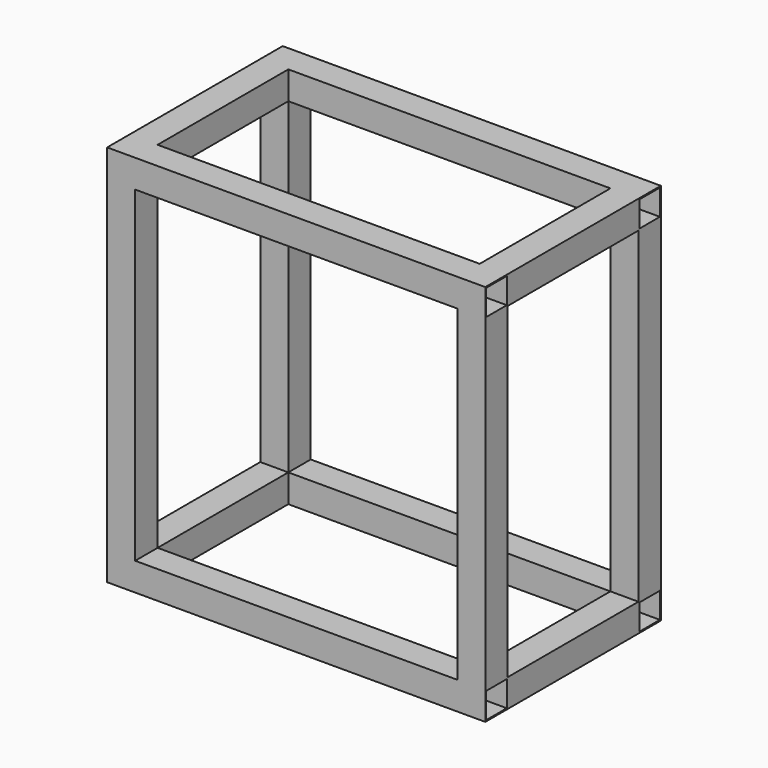
from build123d import *

# Parameters (mm, degrees)
F0_W      = 152.4
F0_H      = 152.4
F0_W_2    = 139.7
F0_H_2    = 139.7
F1_DEPTH  = 2057.4
F2_W      = 152.4
F2_H      = 152.4
F3_DEPTH  = 1041.4
F4_W      = 152.4
F4_H      = 152.4
F5_DEPTH  = 1752.6
F6_W      = 139.7
F6_H      = 139.7
F7_DEPTH  = 2286
F8_W      = 152.4
F8_H      = 152.4
F9_DEPTH  = 1778
F10_W     = 152.4
F10_H     = 152.4
F11_DEPTH = 1193.8
F12_W     = 152.4
F12_H     = 152.4
F13_DEPTH = 1752.6
F14_W     = 139.7
F14_H     = 139.7
F15_DEPTH = 2286


with BuildPart() as f1:
    # F0 (on Right) → F1 (new body)
    with BuildSketch(Plane.YZ):
        Rectangle(F0_W, F0_H)
        Rectangle(F0_W_2, F0_H_2, mode=Mode.SUBTRACT)
    extrude(amount=F1_DEPTH)

    # F2 (on face) → F3 (join)
    with BuildSketch(Plane.XZ.offset(76.2)):
        with Locations((76.2, 0)):
            Rectangle(F2_W, F2_H)
        with Locations((1981.2, 0)):
            Rectangle(F2_W, F2_H)
    extrude(amount=F3_DEPTH)

    # F4 (on face) → F5 (join)
    with BuildSketch(Plane.YZ.offset(152.4)):
        with Locations((-1041.4, 0)):
            Rectangle(F4_W, F4_H)
    extrude(amount=F5_DEPTH)

    # F6 (on face) → F7 (cut)
    with BuildSketch(Plane.YZ.offset(2057.4)):
        with Locations((-1041.4, 0)):
            Rectangle(F6_W, F6_H)
    extrude(amount=-F7_DEPTH, mode=Mode.SUBTRACT)

    # F8 (on face) → F9 (join)
    with BuildSketch(Plane.XY.offset(76.2)):
        with Locations((76.2, 0)):
            Rectangle(F8_W, F8_H)
        with Locations((76.2, -1041.4)):
            Rectangle(F8_W, F8_H)
        with Locations((1981.2, -1041.4)):
            Rectangle(F8_W, F8_H)
        with Locations((1981.2, 0)):
            Rectangle(F8_W, F8_H)
    extrude(amount=F9_DEPTH)

    # F10 (on face) → F11 (join)
    with BuildSketch(Plane.XZ.offset(1117.6)):
        with Locations((76.2, 1930.4)):
            Rectangle(F10_W, F10_H)
        with Locations((1981.2, 1930.4)):
            Rectangle(F10_W, F10_H)
    extrude(amount=-F11_DEPTH)

    # F12 (on face) → F13 (join)
    with BuildSketch(Plane(origin=(1905, 0, 0), x_dir=(0, -1, 0), z_dir=(-1, 0, 0))):
        with Locations((0, 1930.4)):
            Rectangle(F12_W, F12_H)
        with Locations((1041.4, 1930.4)):
            Rectangle(F12_W, F12_H)
    extrude(amount=F13_DEPTH)

    # F14 (on face) → F15 (cut)
    with BuildSketch(Plane(origin=(0, 0, 0), x_dir=(0, -1, 0), z_dir=(-1, 0, 0))):
        with Locations((0, 1930.4)):
            Rectangle(F14_W, F14_H)
        with Locations((1041.4, 1930.4)):
            Rectangle(F14_W, F14_H)
    extrude(amount=-F15_DEPTH, mode=Mode.SUBTRACT)


solid = f1.part
